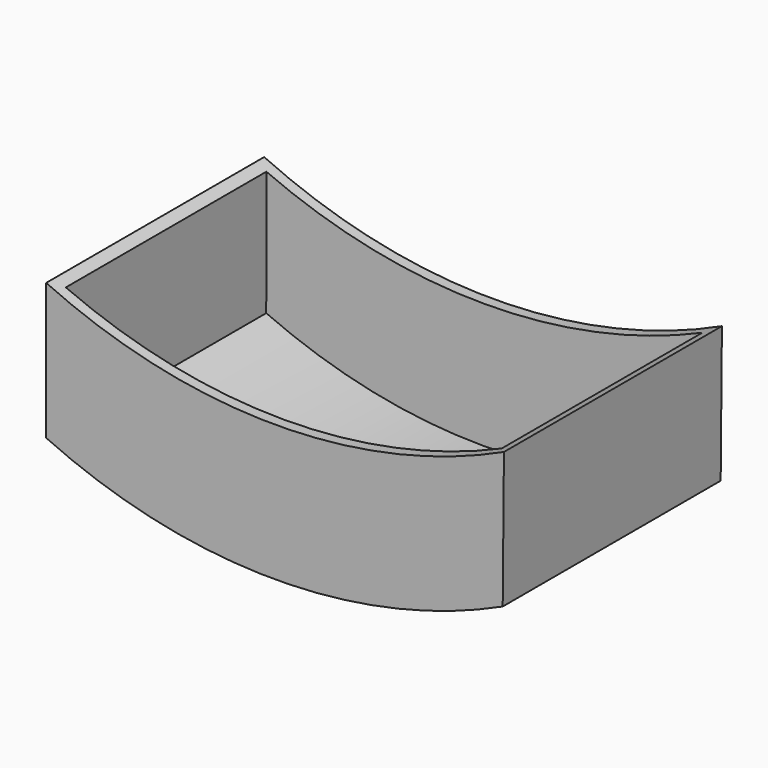
from build123d import *

# Parameters (mm, degrees)
F1_DEPTH = 50
F2_T     = -2


with BuildPart() as f1:
    # F0 (on Front) → F1 (new body)
    with BuildSketch(Plane.XZ):
        with BuildLine():
            ThreePointArc((42, 0), (0, -9.24759), (-42, 0))
            Line((-42, 0), (-42.021068, -25.047362))
            ThreePointArc((-42.021068, -25.047362), (-0.124227, -34.247281), (41.772614, -25.047362))
            Line((41.772614, -25.047362), (42, 0))
        make_face()
    extrude(amount=F1_DEPTH)

    # F2
    f2_openings = [f1.faces().sort_by_distance(p)[0] for p in [
        (0, -25, -9.24759),
    ]]
    offset(amount=F2_T, openings=f2_openings)


solid = f1.part
